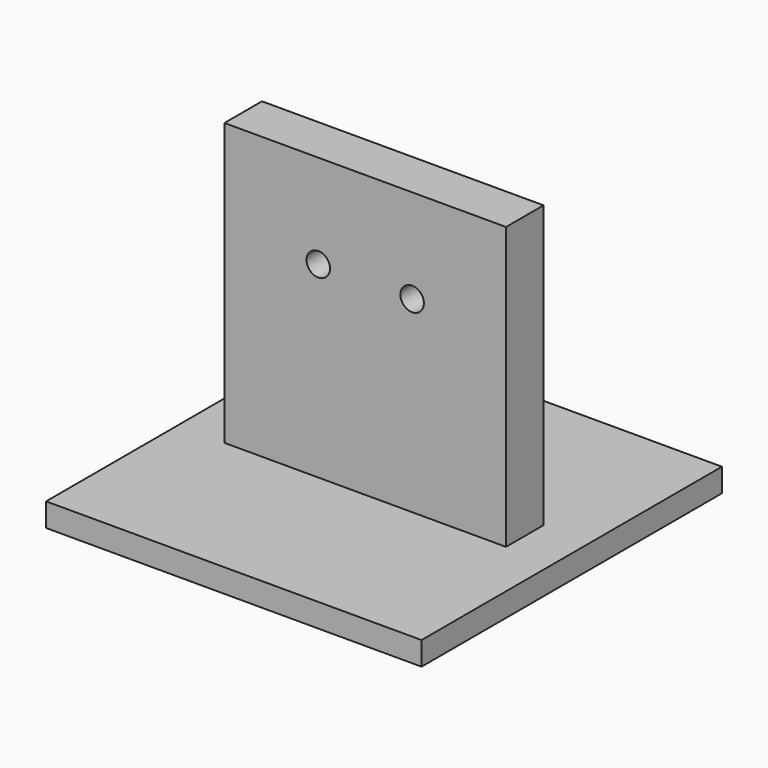
from build123d import *

# Parameters (mm, degrees)
F0_W     = 101.6
F0_H     = 101.6
F1_DEPTH = 6.35
F2_W     = 76.2
F2_H     = 12.7
F3_DEPTH = 76.2
F5_D     = 6.35


with BuildPart() as f1:
    # F0 (on Top) → F1 (new body)
    with BuildSketch(Plane.XY):
        Rectangle(F0_W, F0_H)
    extrude(amount=F1_DEPTH)

    # F2 (on face) → F3 (join)
    with BuildSketch(Plane.XY.offset(6.35)):
        Rectangle(F2_W, F2_H)
    extrude(amount=F3_DEPTH)

    # F5 (through all)
    with Locations(Plane.XZ.offset(6.35)):
        with Locations((-12.7, 57.15), (12.7, 57.15)):
            Hole(F5_D / 2)


solid = f1.part
